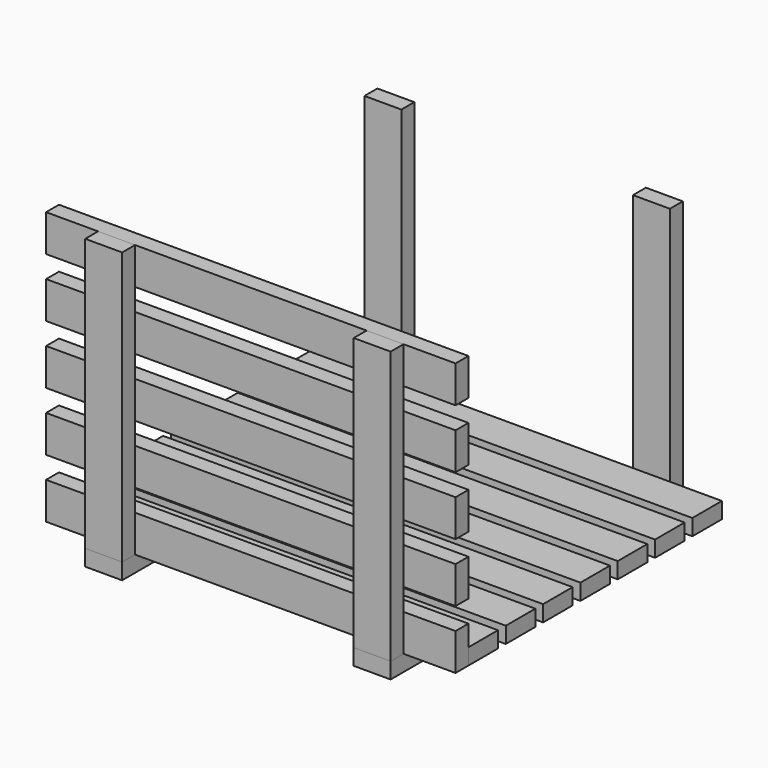
from build123d import *

# Parameters (mm, degrees)
F2_W      = 610
F2_H      = 55
F3_DEPTH  = 24
F4_W      = 55
F4_H      = 406
F5_DEPTH  = 24
F6_W      = 55
F6_H      = 496
F6_H_2    = 24
F7_DEPTH  = 24
F6_H_3    = 520
F8_W      = 55
F8_H      = 406
F9_DEPTH  = 24
F10_W     = 610
F10_H     = 55
F11_DEPTH = 24


with BuildPart() as f3:
    # F2 (on Front) → F3 (new body)
    with BuildSketch(Plane.XZ):
        with Locations((0, 175.5)):
            Rectangle(F2_W, F2_H)
    extrude(amount=F3_DEPTH)


with BuildPart() as f3b:
    # F2 (on Front) → F3, piece 2 (new body)
    with BuildSketch(Plane.XZ):
        with Locations((0, 87.75)):
            Rectangle(F2_W, F2_H)
    extrude(amount=F3_DEPTH)


with BuildPart() as f3c:
    # F2 (on Front) → F3, piece 3 (new body)
    with BuildSketch(Plane.XZ):
        Rectangle(F2_W, F2_H)
    extrude(amount=F3_DEPTH)


with BuildPart() as f3d:
    # F2 (on Front) → F3, piece 4 (new body)
    with BuildSketch(Plane.XZ):
        with Locations((0, -175.5)):
            Rectangle(F2_W, F2_H)
    extrude(amount=F3_DEPTH)


with BuildPart() as f3e:
    # F2 (on Front) → F3, piece 5 (new body)
    with BuildSketch(Plane.XZ):
        with Locations((0, -87.75)):
            Rectangle(F2_W, F2_H)
    extrude(amount=F3_DEPTH)


with BuildPart() as f5:
    # F4 (on face) → F5 (new body)
    with BuildSketch(Plane.XZ.offset(24)):
        with Locations((-200, 0)):
            Rectangle(F4_W, F4_H)
    extrude(amount=F5_DEPTH)


with BuildPart() as f5b:
    # F4 (on face) → F5, piece 2 (new body)
    with BuildSketch(Plane.XZ.offset(24)):
        with Locations((200, 0)):
            Rectangle(F4_W, F4_H)
    extrude(amount=F5_DEPTH)


with BuildPart() as f7:
    # F6 (on face) → F7 (new body)
    with BuildSketch(Plane(origin=(0, 0, -203), x_dir=(1, 0, 0), z_dir=(0, 0, -1))):
        with Locations((200, -224)):
            Rectangle(F6_W, F6_H)
        with Locations((200, 36)):
            Rectangle(F6_W, F6_H_2)
    extrude(amount=F7_DEPTH)


with BuildPart() as f7b:
    # F6 (on face) → F7, piece 2 (new body)
    with BuildSketch(Plane(origin=(0, 0, -203), x_dir=(1, 0, 0), z_dir=(0, 0, -1))):
        with Locations((-200, -212)):
            Rectangle(F6_W, F6_H_3)
    extrude(amount=F7_DEPTH)


with BuildPart() as f9:
    # F8 (on face) → F9 (new body)
    with BuildSketch(Plane(origin=(0, 472, 0), x_dir=(-1, 0, 0), z_dir=(0, 1, 0))):
        with Locations((-200, -24)):
            Rectangle(F8_W, F8_H)
    extrude(amount=F9_DEPTH)


with BuildPart() as f9b:
    # F8 (on face) → F9, piece 2 (new body)
    with BuildSketch(Plane(origin=(0, 472, 0), x_dir=(-1, 0, 0), z_dir=(0, 1, 0))):
        with Locations((200, -24)):
            Rectangle(F8_W, F8_H)
    extrude(amount=F9_DEPTH)


with BuildPart() as f11:
    # F10 (on face) → F11 (new body)
    with BuildSketch(Plane.XY.offset(-203)):
        with Locations((0, 27.5)):
            Rectangle(F10_W, F10_H)
    extrude(amount=F11_DEPTH)


with BuildPart() as f11b:
    # F10 (on face) → F11, piece 2 (new body)
    with BuildSketch(Plane.XY.offset(-203)):
        with Locations((0, 97)):
            Rectangle(F10_W, F10_H)
    extrude(amount=F11_DEPTH)


with BuildPart() as f11c:
    # F10 (on face) → F11, piece 3 (new body)
    with BuildSketch(Plane.XY.offset(-203)):
        with Locations((0, 166.5)):
            Rectangle(F10_W, F10_H)
    extrude(amount=F11_DEPTH)


with BuildPart() as f11d:
    # F10 (on face) → F11, piece 4 (new body)
    with BuildSketch(Plane.XY.offset(-203)):
        with Locations((0, 236)):
            Rectangle(F10_W, F10_H)
    extrude(amount=F11_DEPTH)


with BuildPart() as f11e:
    # F10 (on face) → F11, piece 5 (new body)
    with BuildSketch(Plane.XY.offset(-203)):
        with Locations((0, 305.5)):
            Rectangle(F10_W, F10_H)
    extrude(amount=F11_DEPTH)


with BuildPart() as f11f:
    # F10 (on face) → F11, piece 6 (new body)
    with BuildSketch(Plane.XY.offset(-203)):
        with Locations((0, 375)):
            Rectangle(F10_W, F10_H)
    extrude(amount=F11_DEPTH)


with BuildPart() as f11g:
    # F10 (on face) → F11, piece 7 (new body)
    with BuildSketch(Plane.XY.offset(-203)):
        with Locations((0, 444.5)):
            Rectangle(F10_W, F10_H)
    extrude(amount=F11_DEPTH)


solid = Compound([f3.part, f3b.part, f3c.part, f3d.part, f3e.part, f5.part, f5b.part, f7.part, f7b.part, f9.part, f9b.part, f11.part, f11b.part, f11c.part, f11d.part, f11e.part, f11f.part, f11g.part])
